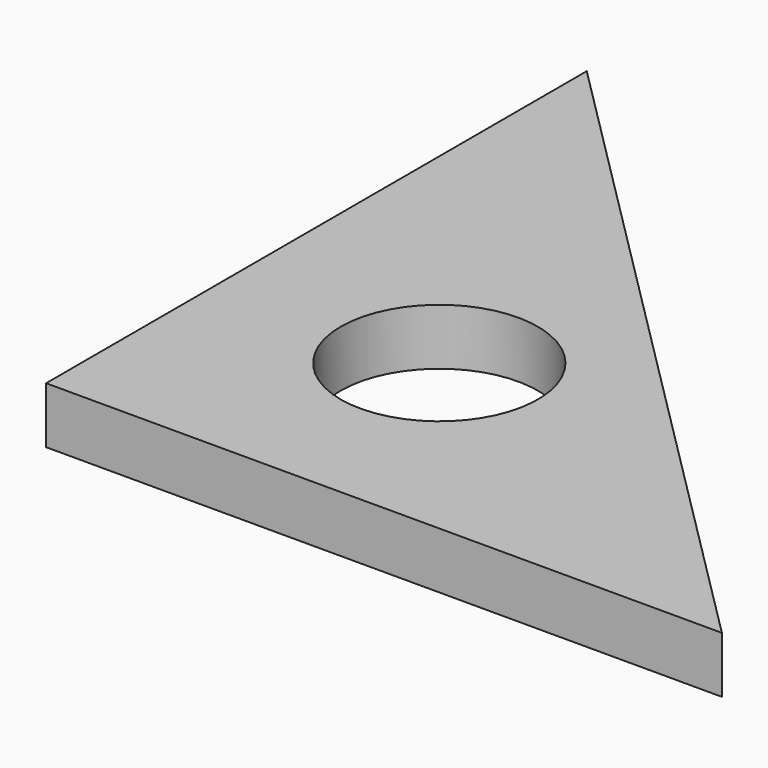
from build123d import *

# Parameters (mm, degrees)
F1_DEPTH = 5
F2_D     = 17.5
F2_DEPTH = 203
F2_TIP   = 5.2575304165


with BuildPart() as f1:
    # F0 (on Top) → F1 (new body)
    with BuildSketch(Plane.XY):
        Polygon((0, 60), (0, 0), (60, 0), (30, 30), align=None)
        with BuildLine():
            ThreePointArc((22.8933982822, 19.3933982822), (16.1598199184, 18.0540062689), (21.8682720164, 21.8682720164))
            ThreePointArc((21.8682720164, 21.8682720164), (22.626976646, 20.7327902955), (22.8933982822, 19.3933982822))
        make_face(mode=Mode.SUBTRACT)
    extrude(amount=F1_DEPTH)

    # F2
    with Locations(Plane(origin=(0, 0, 0), x_dir=(1, 0, 0), z_dir=(0, 0, -1))):
        with Locations((19.3933982822, -19.3933982822)):
            Hole(F2_D / 2, depth=F2_DEPTH)
            with Locations((0, 0, -(F2_DEPTH + F2_TIP / 2))):  # 118° drill point
                Cone(0, F2_D / 2, F2_TIP, mode=Mode.SUBTRACT)


solid = f1.part
